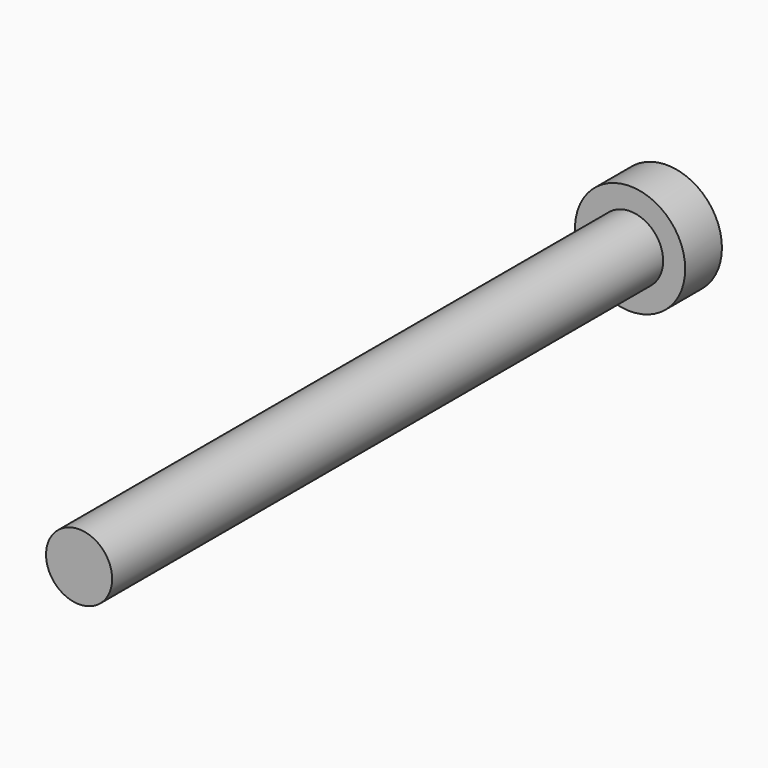
from build123d import *

# Parameters (mm, degrees)
F0_R     = 3.81
F1_DEPTH = 50.8
F2_R     = 5.08
F2_R_2   = 2.286
F3_DEPTH = 47.625


with BuildPart() as f1:
    # F0 (on Front) → F1 (new body)
    with BuildSketch(Plane.XZ):
        Circle(F0_R)
    extrude(amount=F1_DEPTH)

    # F2 (on face) → F3 (cut)
    with BuildSketch(Plane.XZ.offset(50.8)):
        Circle(F2_R)
        Circle(F2_R_2, mode=Mode.SUBTRACT)
    extrude(amount=-F3_DEPTH, mode=Mode.SUBTRACT)


solid = f1.part
